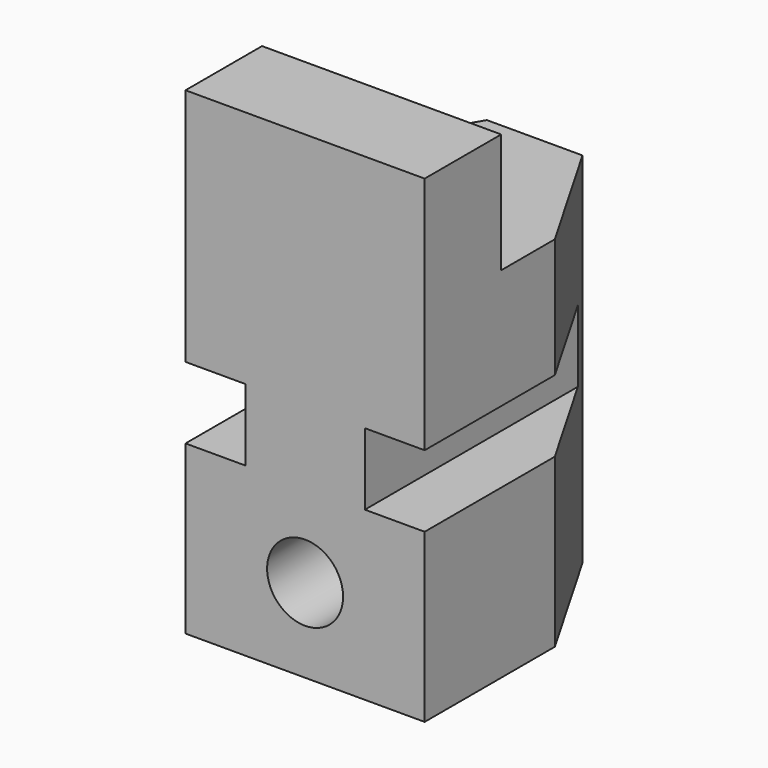
from build123d import *

# Parameters (mm, degrees)
F1_DEPTH = 20
F2_W     = 8
F2_H     = 5
F3_DEPTH = 25.4
F4_W     = 2.5
F4_H     = 3
F5_DEPTH = 38.1
F7_R     = 1.5875
F8_DEPTH = 25.4


with BuildPart() as f1:
    # F0 (on Top) → F1 (new body)
    with BuildSketch(Plane.XY):
        Polygon((0, 12), (0, 0), (5, 0), (5, 6.803848), (2, 12), align=None)
    extrude(amount=F1_DEPTH)

    # F2 (on face) → F3 (cut)
    with BuildSketch(Plane(origin=(0, 0, 0), x_dir=(0, -1, 0), z_dir=(-1, 0, 0))):
        with Locations((-8, 17.5)):
            Rectangle(F2_W, F2_H)
    extrude(amount=-F3_DEPTH, mode=Mode.SUBTRACT)

    # F4 (on face) → F5 (cut)
    with BuildSketch(Plane.XZ):
        with Locations((3.75, 8.5)):
            Rectangle(F4_W, F4_H)
    extrude(amount=-F5_DEPTH, mode=Mode.SUBTRACT)

    # F6: F1 across face


with BuildPart() as f1_1:
    add(f1.part)
    add(f1.part.mirror(Plane(origin=(0, 5.6, 8.5), x_dir=(0, -1, 0), z_dir=(-1, 0, 0))))

    # F7 (on face) → F8 (cut)
    with BuildSketch(Plane.XZ):
        with Locations((0, 3.5)):
            Circle(F7_R)
    extrude(amount=-F8_DEPTH, mode=Mode.SUBTRACT)


solid = f1_1.part
